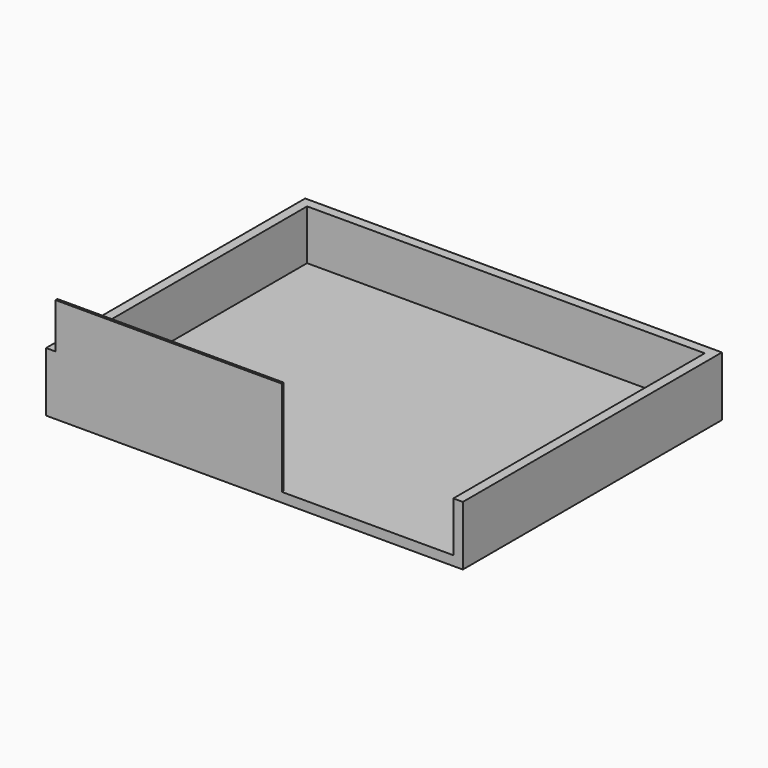
from build123d import *

# Parameters (mm, degrees)
F0_W     = 111.125
F0_H     = 86.36
F1_DEPTH = 15.875
F2_T     = -2.54
F3_W     = 60.325
F3_H     = 0.635
F4_DEPTH = 25.4


with BuildPart() as f1:
    # F0 (on Top) → F1 (new body)
    with BuildSketch(Plane.XY):
        Rectangle(F0_W, F0_H)
    extrude(amount=F1_DEPTH)

    # F2
    f2_openings = [f1.faces().sort_by_distance(p)[0] for p in [
        (0, 0, 15.875),
        (0, -43.18, 7.9375),
    ]]
    offset(amount=F2_T, openings=f2_openings)

    # F3 (on face) → F4 (join)
    with BuildSketch(Plane.XY.offset(2.54)):
        with Locations((-22.86, -42.8625)):
            Rectangle(F3_W, F3_H)
    extrude(amount=F4_DEPTH)


solid = f1.part
